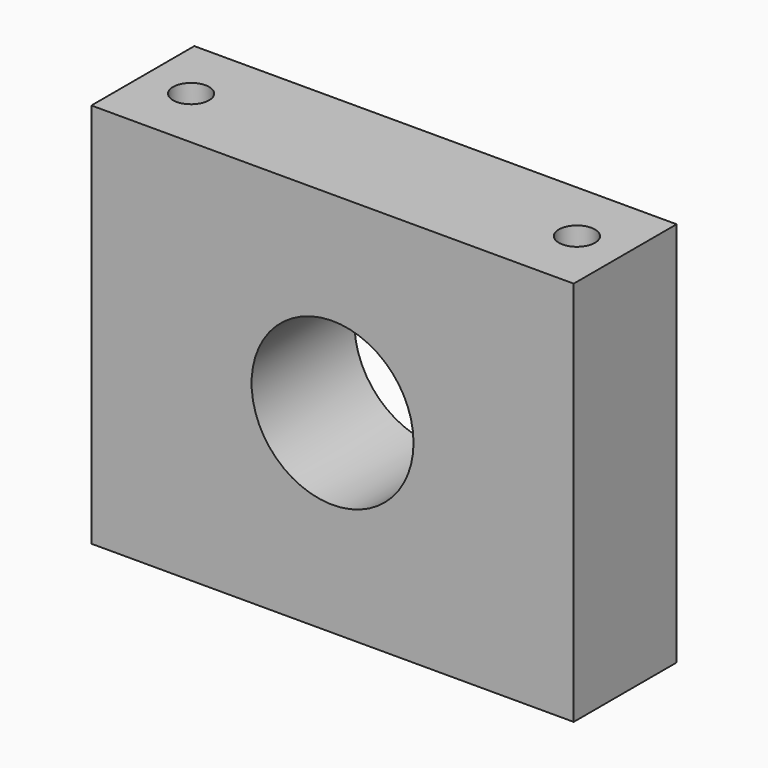
from build123d import *

# Parameters (mm, degrees)
F0_W     = 95.25
F0_H     = 76.2
F1_DEPTH = 25.4
F2_R     = 15.99114
F3_DEPTH = 47.498
F4_R     = 3.5687
F5_DEPTH = 7.1374


with BuildPart() as f1:
    # F0 (on Front) → F1 (new body)
    with BuildSketch(Plane.XZ):
        with Locations((6.918825, -0.13822)):
            Rectangle(F0_W, F0_H)
    extrude(amount=F1_DEPTH)

    # F2 (on face) → F3 (cut)
    with BuildSketch(Plane.XZ.offset(25.4)):
        with Locations((6.918825, 0)):
            Circle(F2_R)
    extrude(amount=-F3_DEPTH, mode=Mode.SUBTRACT)

    # F4 (on face) → F5 (cut)
    with BuildSketch(Plane.XY.offset(37.96178)):
        with Locations((-31.181175, -12.7)):
            Circle(F4_R)
        with BuildLine():
            ThreePointArc((41.450125, -12.7), (45.018825, -16.2687), (48.587525, -12.7))
            ThreePointArc((48.587525, -12.7), (45.018825, -9.1313), (41.450125, -12.7))
        make_face()
    extrude(amount=-F5_DEPTH, mode=Mode.SUBTRACT)


solid = f1.part
